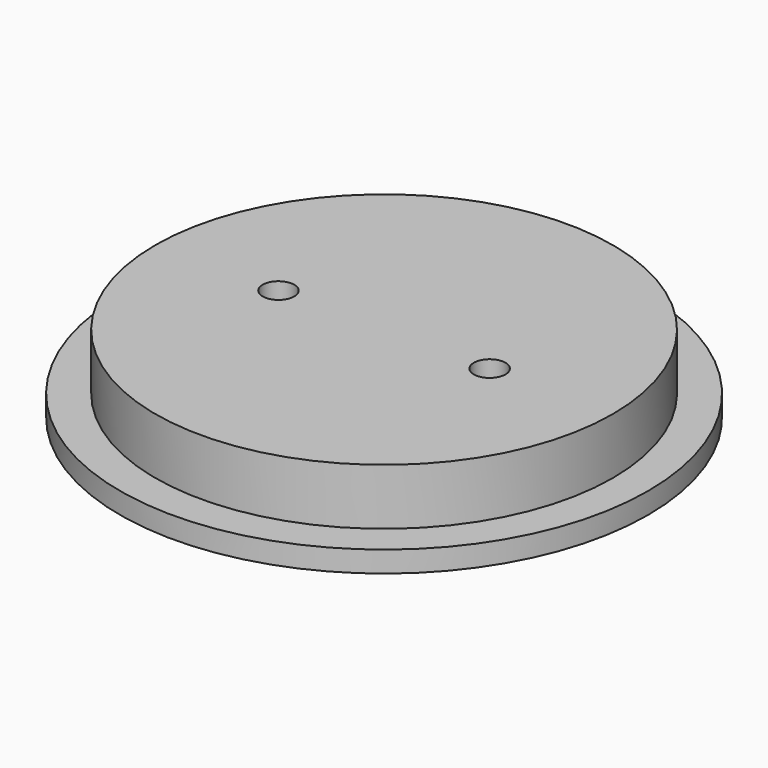
from build123d import *

# Parameters (mm, degrees)
SKETCH_R          = 32.5
PAD_DEPTH         = 8
SKETCH001_R       = 37.5
PAD001_DEPTH      = 3
SKETCH002_R       = 2.25
POCKET_DEPTH      = 3.001
POCKET_DEPTH_BACK = -8.001


with BuildPart() as part:
    # Sketch → Pad (new body)
    with BuildSketch(Plane.XY):
        Circle(SKETCH_R)
    extrude(amount=PAD_DEPTH)

    # Sketch001 → Pad001 (join)
    with BuildSketch(Plane.XY):
        Circle(SKETCH001_R)
    extrude(amount=-PAD001_DEPTH)

    # Sketch002 → Pocket (cut, two sides)
    with BuildSketch(Plane.XY) as pocket_sk:
        with Locations((-15, 0)):
            Circle(SKETCH002_R)
        with Locations((15, 0)):
            Circle(SKETCH002_R)
    extrude(amount=-POCKET_DEPTH, mode=Mode.SUBTRACT)
    extrude(pocket_sk.sketch, amount=-POCKET_DEPTH_BACK, mode=Mode.SUBTRACT)


solid = part.part
